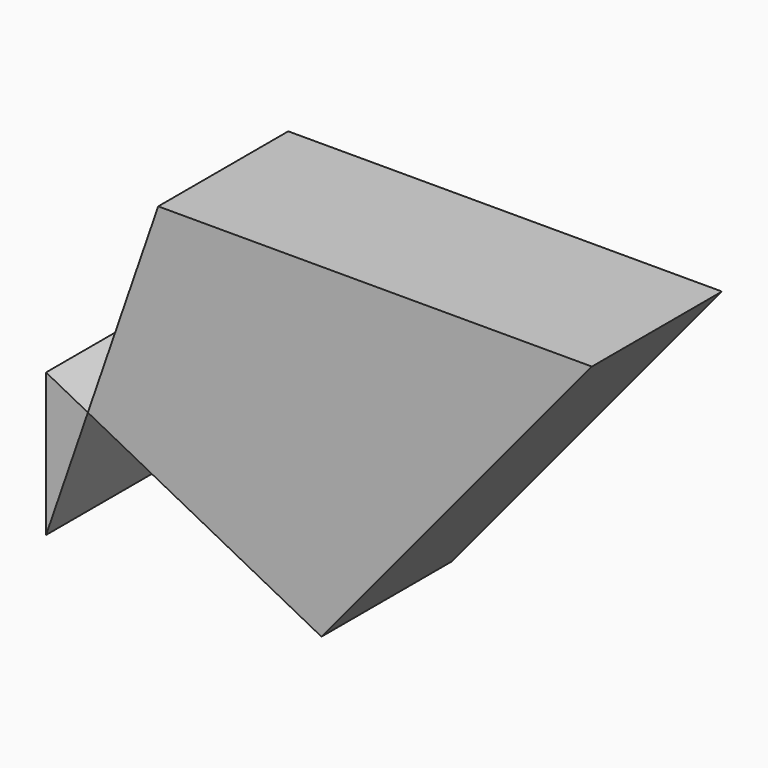
from build123d import *

# Parameters (mm, degrees)
F1_DEPTH = 25.4


with BuildPart() as f1:
    # F0 (on Front) → F1 (new body)
    with BuildSketch(Plane.XZ):
        Polygon((0, 22.366866), (0, 0), (6.530501, 18.972549), align=None)
        Polygon((17.522313, 50.906193), (6.530501, 18.972549), (43.032758, 0), (85.292488, 50.906193), align=None)
    extrude(amount=F1_DEPTH)


solid = f1.part
